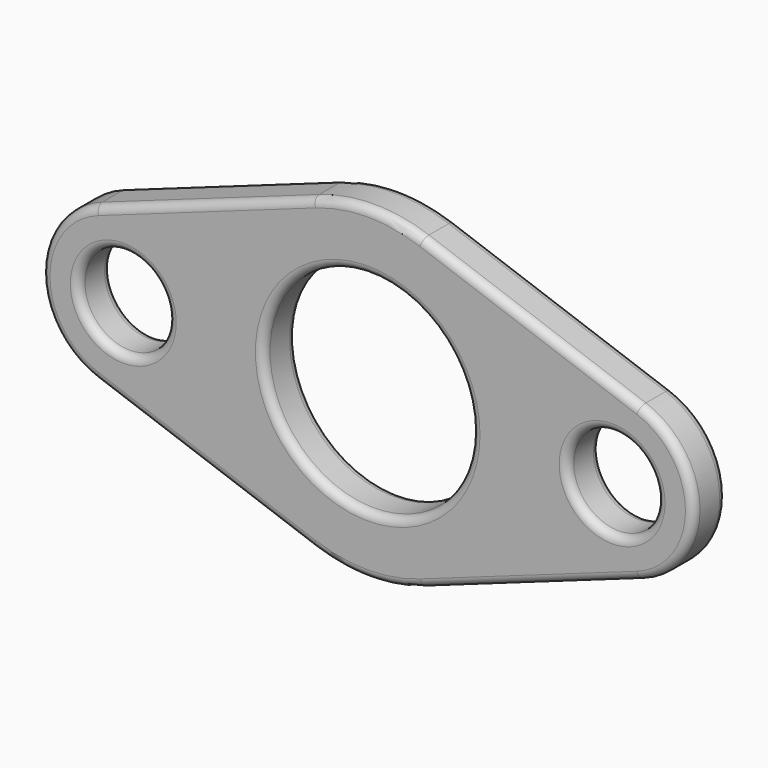
from build123d import *

# Parameters (mm, degrees)
SKETCH_R   = 25.577663
SKETCH_R_2 = 11
PAD_DEPTH  = 10
FILLET_R   = 2


with BuildPart() as part:
    # Sketch → Pad (new body)
    with BuildSketch(Plane.XZ):
        with BuildLine():
            ThreePointArc((-66.713333, 18.839617), (-80, 0), (-66.713333, -18.839617))
            Line((-66.713333, -18.839617), (-13.47366, -37.811111))
            ThreePointArc((-13.47366, -37.811111), (0, -40.14), (13.47366, -37.811111))
            Line((13.47366, -37.811111), (66.713333, -18.839617))
            ThreePointArc((66.713333, -18.839617), (80, 0), (66.713333, 18.839617))
            Line((13.47366, 37.811111), (66.713333, 18.839617))
            ThreePointArc((13.47366, 37.811111), (0, 40.14), (-13.47366, 37.811111))
            Line((-13.47366, 37.811111), (-66.713333, 18.839617))
        make_face()
        Circle(SKETCH_R, mode=Mode.SUBTRACT)
        with Locations((-60, 0)):
            Circle(SKETCH_R_2, mode=Mode.SUBTRACT)
        with Locations((60, 0)):
            Circle(SKETCH_R_2, mode=Mode.SUBTRACT)
    extrude(amount=PAD_DEPTH)

    # Fillet
    fillet_edges = [part.edges().sort_by_distance(p)[0] for p in [
        (13.47366, -5, 37.811111),
        (-13.47366, -5, 37.811111),
        (0, 0, 40.14),
        (0, -10, 40.14),
        (-66.713333, -5, 18.839617),
        (-40.093497, 0, 28.325364),
        (-40.093497, -10, 28.325364),
        (-66.713333, -5, -18.839617),
        (-80, 0, 0),
        (-80, -10, 0),
        (-13.47366, -5, -37.811111),
        (-40.093497, 0, -28.325364),
        (-40.093497, -10, -28.325364),
        (13.47366, -5, -37.811111),
        (0, 0, -40.14),
        (0, -10, -40.14),
        (66.713333, -5, -18.839617),
        (40.093497, 0, -28.325364),
        (40.093497, -10, -28.325364),
        (66.713333, -5, 18.839617),
        (80, 0, 0),
        (80, -10, 0),
        (40.093497, 0, 28.325364),
        (40.093497, -10, 28.325364),
        (25.577663, -5, 0),
        (-25.577663, 0, 0),
        (-25.577663, -10, 0),
        (71, -5, 0),
        (49, 0, 0),
        (49, -10, 0),
        (-49, -5, 0),
        (-71, 0, 0),
        (-71, -10, 0),
    ]]
    fillet(fillet_edges, radius=FILLET_R)


solid = part.part
